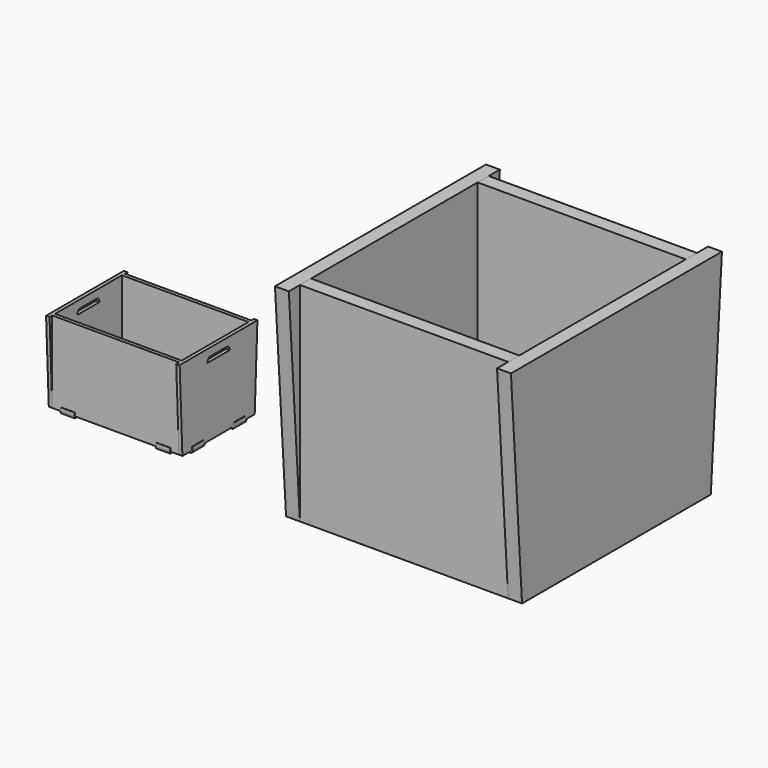
from build123d import *

# Parameters (mm, degrees)
F0_W      = 20
F0_H      = 5.5
F0_W_2    = 5.5
F0_H_2    = 20
F0_W_3    = 6.2382672471
F0_W_4    = 4.7617327529
F0_H_3    = 7.058719861
F1_DEPTH  = 5
F3_DEPTH  = 5
F6_DEPTH  = 5
F10_W     = 39.5112484694
F10_H     = 6.334066391
F11_DEPTH = 192.5
F12_R     = 5
F12_2_R   = 5
F13_W     = 20
F13_H     = 60
F13_W_2   = 60
F13_H_2   = 20
F14_DEPTH = 20
F15_W     = 20
F15_H     = 60
F15_W_2   = 120
F15_H_2   = 20
F16_DEPTH = 20
F19_W     = 20
F19_H     = 120
F20_DEPTH = 20


with BuildPart() as f1:
    # F0 (on Top) → F1 (new body)
    with BuildSketch(Plane.XY):
        Polygon((78.9788460732, -60.1447808916), (91.0846347042, -60.1447808916), (91.0846347042, -47.6279838383), (91.0846347042, -27.6279838383), (91.0846347042, 27.6279838383), (85.5846347042, 27.6279838383), (85.5846347042, 47.6279838383), (91.0846347042, 47.6279838383), (91.0846347042, 60.1447808916), (78.9788460732, 60.1447808916), (78.9788460732, 54.6447808916), (58.9788460732, 54.6447808916), (58.9788460732, 60.1447808916), (-58.9788460732, 60.1447808916), (-58.9788460732, 53.0860610306), (-78.9788460732, 53.0860610306), (-78.9788460732, 60.1447808916), (-91.0846347042, 60.1447808916), (-91.0846347042, 47.6279838383), (-86.3229019513, 47.6279838383), (-86.3229019513, 27.6279838383), (-91.0846347042, 27.6279838383), (-91.0846347042, -27.6279838383), (-91.0846347042, -47.6279838383), (-91.0846347042, -60.1447808916), (-78.9788460732, -60.1447808916), (-58.9788460732, -60.1447808916), (58.9788460732, -60.1447808916), (58.9788460732, -54.6447808916), (78.9788460732, -54.6447808916), align=None)
        with Locations((68.9788460732, -62.8947808916)):
            Rectangle(F0_W, F0_H)
        with Locations((68.9788460732, -57.3947808916)):
            Rectangle(F0_W, F0_H)
        with Locations((93.8346347042, -37.6279838383)):
            Rectangle(F0_W_2, F0_H_2)
        with Locations((-68.9788460732, -62.8947808916)):
            Rectangle(F0_W, F0_H)
        with Locations((88.3346347042, 37.6279838383)):
            Rectangle(F0_W_2, F0_H_2)
        with Locations((93.8346347042, 37.6279838383)):
            Rectangle(F0_W_2, F0_H_2)
        with Locations((-94.2037683277, -37.6279838383)):
            Rectangle(F0_W_3, F0_H_2)
        with Locations((68.9788460732, 57.3947808916)):
            Rectangle(F0_W, F0_H)
        with Locations((68.9788460732, 62.8947808916)):
            Rectangle(F0_W, F0_H)
        with Locations((-94.2037683277, 37.6279838383)):
            Rectangle(F0_W_3, F0_H_2)
        with Locations((-88.7037683277, 37.6279838383)):
            Rectangle(F0_W_4, F0_H_2)
        with Locations((-68.9788460732, 56.6154209611)):
            Rectangle(F0_W, F0_H_3)
        with Locations((-68.9788460732, 62.8947808916)):
            Rectangle(F0_W, F0_H)
    extrude(amount=F1_DEPTH)


with BuildPart() as f3:
    # F2 (on face) → F3 (new body)
    with BuildSketch(Plane.YZ.offset(91.0846347042)):
        Polygon((-50.8797168732, 0), (-49.4536261749, -2.6282228064), (-25.7040392607, -2.6282228064), (-24.1590496153, 0), (24.1590496153, 0), (25.7040392607, -2.6282228064), (49.4536261749, -2.6282228064), (50.8797168732, 0), (65, 0), (65, 117.3717771936), (-65, 117.3717771936), (-65, 0), (-60.1447808916, 0), (-60.1447808916, 5), (-47.6279838383, 5), (-47.6279838383, 0), align=None)
        Polygon((-60.1447808916, 0), (-50.8797168732, 0), (-47.6279838383, 0), (-47.6279838383, 5), (-60.1447808916, 5), align=None)
        Polygon((-50.8797168732, 0), (-49.4536261749, -2.6282228064), (-25.7040392607, -2.6282228064), (-24.1590496153, 0), (24.1590496153, 0), (25.7040392607, -2.6282228064), (49.4536261749, -2.6282228064), (50.8797168732, 0), (65, 0), (65, 117.3717771936), (-65, 117.3717771936), (-65, 0), (-60.1447808916, 0), (-60.1447808916, 5), (-47.6279838383, 5), (-47.6279838383, 0), align=None)
        Polygon((-65.1095092836, 0), (-65, 0), (-65, 117.3717771936), (-70, 117.3717771936), align=None)
        Polygon((70, 117.3717771936), (65, 117.3717771936), (65, 0), (65.1095092836, 0), align=None)
    extrude(amount=F3_DEPTH)


with BuildPart() as f4_1:
    # F4: copy of F3
    add(f3.part.moved(Location((-187.5, 0, 0))))

    # F8: cut F1
    add(f1.part, mode=Mode.SUBTRACT)


with BuildPart() as f6:
    # F5 (on face) → F6 (new body)
    with BuildSketch(Plane.XZ.offset(60.1447808916)):
        Polygon((-80.2751630545, 0), (-79.0724977851, -2.6282228064), (-58.8756129146, -2.6282228064), (-57.5041547418, 0), (57.1734241501, 0), (58.5448823229, -2.6282228064), (78.7417671934, -2.6282228064), (79.9444324628, 0), (91.0846347042, 0), (91.0846347042, 117.3717771936), (-91.4153652958, 117.3717771936), (-91.4153652958, 0), (-91.0846347042, 0), (-91.0846347042, 5), (-78.9788460732, 5), (-78.9788460732, 0), align=None)
        Polygon((-91.0846347042, 0), (-80.2751630545, 0), (-78.9788460732, 0), (-78.9788460732, 5), (-91.0846347042, 5), align=None)
    extrude(amount=F6_DEPTH)


with BuildPart() as f7_1:
    # F7: copy of F6
    add(f6.part.moved(Location((0, 125.5, 0))))

    # F8: cut F1
    add(f1.part, mode=Mode.SUBTRACT)

    # F9: cut F1
    add(f1.part, mode=Mode.SUBTRACT)


with BuildPart() as f3_1:
    add(f3.part)

    # F8: cut F1
    add(f1.part, mode=Mode.SUBTRACT)


with BuildPart() as f6_1:
    add(f6.part)

    # F8: cut F1
    add(f1.part, mode=Mode.SUBTRACT)

    # F9: cut F1
    add(f1.part, mode=Mode.SUBTRACT)


with BuildPart() as f11_tool:
    # F10 (on face) → F11 (new body, through all)
    with BuildSketch(Plane(origin=(-96.4153652958, 0, 0), x_dir=(0, -1, 0), z_dir=(-1, 0, 0))):
        with Locations((0, 102.915585041)):
            Rectangle(F10_W, F10_H)
    extrude(amount=-F11_DEPTH)


with BuildPart() as f3_2:
    add(f3_1.part)

    # F11: cut by f11_tool
    add(f11_tool.part, mode=Mode.SUBTRACT)

    # F12
    f12_edges = [f3_2.edges().sort_by_distance(p)[0] for p in [
        (93.584635, 19.755624, 106.082618),
        (93.584635, -19.755624, 106.082618),
    ]]
    fillet(f12_edges, radius=F12_R)


with BuildPart() as f4_1_1:
    add(f4_1.part)

    # F11: cut by f11_tool
    add(f11_tool.part, mode=Mode.SUBTRACT)

    # F12#2
    f12_2_edges = [f4_1_1.edges().sort_by_distance(p)[0] for p in [
        (-93.915365, 19.755624, 106.082618),
        (-93.915365, -19.755624, 106.082618),
    ]]
    fillet(f12_2_edges, radius=F12_2_R)


with BuildPart() as f14:
    # F13 (on Top) → F14 (new body)
    with BuildSketch(Plane.XY):
        Polygon((394.9682962894, 242.9871472716), (274.9682962894, 242.9871472716), (274.9682962894, 133.2951399684), (294.9682962894, 133.2951399684), (294.9682962894, 73.2951399684), (274.9682962894, 73.2951399684), (274.9682962894, -57.0128527284), (394.9682962894, -57.0128527284), (394.9682962894, -37.0128527284), (454.9682962894, -37.0128527284), (454.9682962894, -57.0128527284), (574.9682962894, -57.0128527284), (574.9682962894, 62.9871472716), (554.9682962894, 62.9871472716), (554.9682962894, 122.9871472716), (574.9682962894, 122.9871472716), (574.9682962894, 242.9871472716), (454.9682962894, 242.9871472716), (454.9682962894, 222.9871472716), (394.9682962894, 222.9871472716), align=None)
        with Locations((264.9682962894, 103.2951399684)):
            Rectangle(F13_W, F13_H)
        with Locations((424.9682962894, 252.9871472716)):
            Rectangle(F13_W_2, F13_H_2)
        with Locations((584.9682962894, 92.9871472716)):
            Rectangle(F13_W, F13_H)
        with Locations((424.9682962894, -67.0128527284)):
            Rectangle(F13_W_2, F13_H_2)
        with Locations((424.9682962894, -47.0128527284)):
            Rectangle(F13_W_2, F13_H_2)
        with Locations((564.9682962894, 92.9871472716)):
            Rectangle(F13_W, F13_H)
        with Locations((424.9682962894, 232.9871472716)):
            Rectangle(F13_W_2, F13_H_2)
        with Locations((284.9682962894, 103.2951399684)):
            Rectangle(F13_W, F13_H)
    extrude(amount=F14_DEPTH)


with BuildPart() as f16:
    # F15 (on face) → F16 (new body)
    with BuildSketch(Plane.XZ.offset(57.0128527284)):
        with Locations((264.9682962894, 130)):
            Rectangle(F15_W, F15_H)
        Polygon((274.9682962894, 0), (274.9682962894, -20), (574.9682962894, -20), (574.9682962894, 100), (554.9682962894, 100), (554.9682962894, 160), (574.9682962894, 160), (574.9682962894, 280), (274.9682962894, 280), (274.9682962894, 160), (294.9682962894, 160), (294.9682962894, 100), (274.9682962894, 100), (274.9682962894, 20), (394.9682962894, 20), (394.9682962894, 0), align=None)
        with Locations((584.9682962894, 130)):
            Rectangle(F15_W, F15_H)
        with Locations((564.9682962894, 130)):
            Rectangle(F15_W, F15_H)
        with Locations((284.9682962894, 130)):
            Rectangle(F15_W, F15_H)
        with Locations((334.9682962894, 10)):
            Rectangle(F15_W_2, F15_H_2)
    extrude(amount=F16_DEPTH)


with BuildPart() as f18_1:
    # F18: instance of F16
    add(f16.part.mirror(Plane(origin=(424.9682962894, 92.9871472716, 130), x_dir=(1, 0, 0), z_dir=(0, 1, 0))))


with BuildPart() as f20:
    # F19 (on face) → F20 (new body)
    with BuildSketch(Plane.YZ.offset(574.9682962894)):
        with Locations((-67.0128527284, 220)):
            Rectangle(F19_W, F19_H)
        Polygon((-77.0128527284, 280), (-97.0128527284, 280), (-77.0128527284, -20), (262.9871472716, -20), (282.9871472716, 280), (-57.0128527284, 280), (-57.0128527284, 160), (-77.0128527284, 160), align=None)
    extrude(amount=F20_DEPTH)


with BuildPart() as f22_1:
    # F22: instance of F20
    add(f20.part.mirror(Plane(origin=(424.9682962894, 8.14114362, 10), x_dir=(0, -1, 0), z_dir=(-1, 0, 0))))


solid = Compound([f1.part, f7_1.part, f6_1.part, f3_2.part, f4_1_1.part, f14.part, f16.part, f18_1.part, f20.part, f22_1.part])
